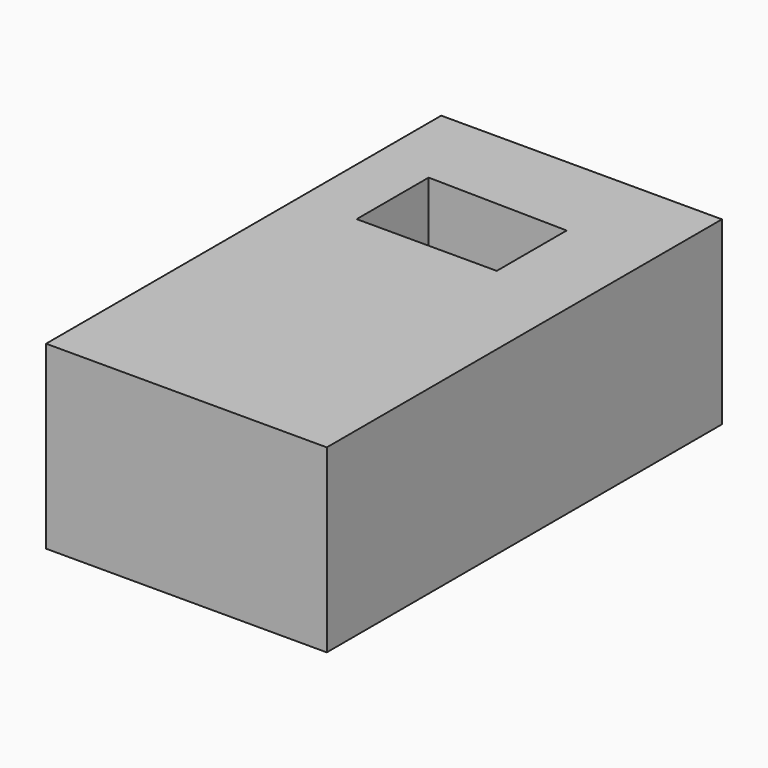
from build123d import *

# Parameters (mm, degrees)
F0_W     = 19.7146944702
F0_H     = 44.4659888744
F0_W_2   = 8.1341895928
F1_DEPTH = 25.4


with BuildPart() as f1:
    # F0 (on Top) → F1 (new body)
    with BuildSketch(Plane.XY):
        Polygon((11.6561325267, 0), (11.6561325267, 56.5538331866), (0, 44.4659888744), (0, 0), align=None)
        Polygon((0, 44.4659888744), (11.6561325267, 56.5538331866), (0, 56.7677064351), align=None)
        Polygon((0, 56.7677064351), (11.6561325267, 56.5538331866), (11.6561325267, 69.5050880313), (0, 69.5050880313), align=None)
        with Locations((-9.8573472351, 22.2329944372)):
            Rectangle(F0_W, F0_H)
        Polygon((-19.7146944702, 57.1294426918), (0, 56.7677064351), (0, 69.5050880313), (-27.848884063, 69.5050880313), (-27.848884063, 44.4659888744), align=None)
        Polygon((-19.7146944702, 44.4659888744), (-19.7146944702, 57.1294426918), (-27.848884063, 44.4659888744), align=None)
        with Locations((-23.7817892666, 22.2329944372)):
            Rectangle(F0_W_2, F0_H)
    extrude(amount=F1_DEPTH)


solid = f1.part
